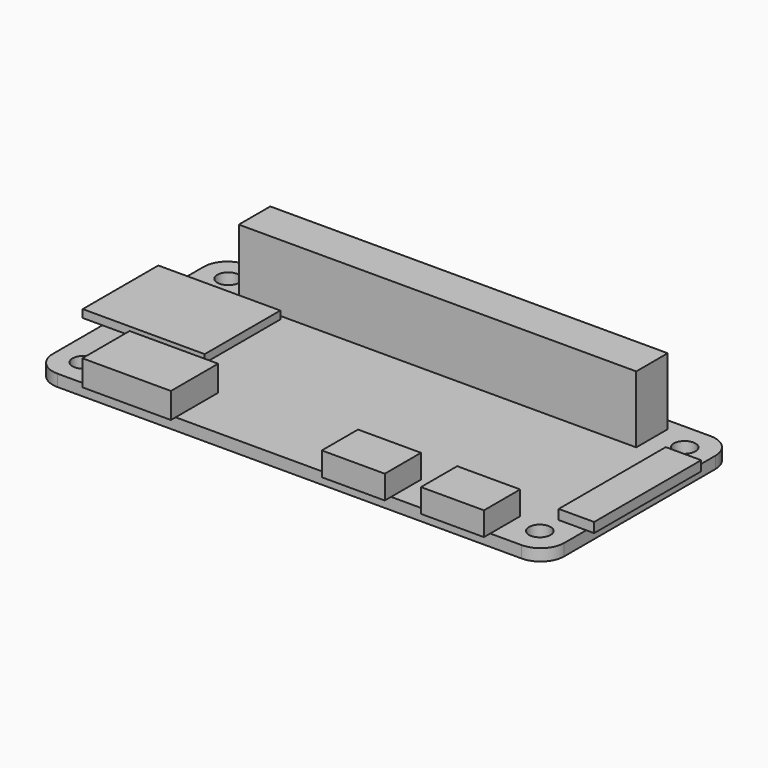
from build123d import *

# Parameters (mm, degrees)
F0_W     = 8
F0_H     = 4.75
F0_W_2   = 11.25
F0_H_2   = 6.75
F0_W_3   = 3.5
F0_H_3   = 17
F0_W_4   = 13
F0_H_4   = 12
F0_R     = 1.375
F0_W_5   = 50.5
F0_H_5   = 5
F1_DEPTH = 1.5
F2_DEPTH = 3.25
F0_W_6   = 2.5
F3_DEPTH = 1
F0_H_6   = 0.75
F4_DEPTH = 3.25
F0_H_7   = 1
F5_DEPTH = 3
F0_W_7   = 1
F6_DEPTH = 1.25
F7_DEPTH = 8.5


with BuildPart() as f1:
    # F0 (on Top) → F1 (new body)
    with BuildSketch(Plane.XY):
        with Locations((21.5, -12.625)):
            Rectangle(F0_W, F0_H)
        with Locations((8.9, -12.625)):
            Rectangle(F0_W, F0_H)
        with Locations((-20.1, -11.625)):
            Rectangle(F0_W_2, F0_H_2)
        with Locations((30.75, 0)):
            Rectangle(F0_W_3, F0_H_3)
        with Locations((-26, 1.9)):
            Rectangle(F0_W_4, F0_H_4)
        with BuildLine():
            ThreePointArc((32.5, 12), (31.62132, 14.12132), (29.5, 15))
            Line((29.5, 15), (-29.5, 15))
            ThreePointArc((-29.5, 15), (-31.62132, 14.12132), (-32.5, 12))
            Line((-32.5, 12), (-32.5, 7.9))
            Line((-32.5, 7.9), (-19.5, 7.9))
            Line((-19.5, 7.9), (-19.5, -4.1))
            Line((-19.5, -4.1), (-32.5, -4.1))
            Line((-32.5, -4.1), (-32.5, -12))
            ThreePointArc((-32.5, -12), (-31.62132, -14.12132), (-29.5, -15))
            Line((-29.5, -15), (-25.725, -15))
            Line((-25.725, -15), (-25.725, -8.25))
            Line((-25.725, -8.25), (-14.475, -8.25))
            Line((-14.475, -8.25), (-14.475, -15))
            Line((-14.475, -15), (4.9, -15))
            Line((4.9, -15), (4.9, -10.25))
            Line((4.9, -10.25), (12.9, -10.25))
            Line((12.9, -10.25), (12.9, -15))
            Line((12.9, -15), (17.5, -15))
            Line((17.5, -15), (17.5, -10.25))
            Line((17.5, -10.25), (25.5, -10.25))
            Line((25.5, -10.25), (25.5, -15))
            Line((25.5, -15), (29.5, -15))
            ThreePointArc((29.5, -15), (31.62132, -14.12132), (32.5, -12))
            Line((32.5, -12), (32.5, -8.5))
            Line((32.5, -8.5), (29, -8.5))
            Line((29, -8.5), (29, 8.5))
            Line((29, 8.5), (32.5, 8.5))
            Line((32.5, 8.5), (32.5, 12))
        make_face()
        with Locations((-29, -11.5)):
            Circle(F0_R, mode=Mode.SUBTRACT)
        with Locations((29, -11.5)):
            Circle(F0_R, mode=Mode.SUBTRACT)
        with Locations((-29, 11.5)):
            Circle(F0_R, mode=Mode.SUBTRACT)
        with Locations((0, 11)):
            Rectangle(F0_W_5, F0_H_5, mode=Mode.SUBTRACT)
        with Locations((29, 11.5)):
            Circle(F0_R, mode=Mode.SUBTRACT)
        with Locations((0, 11)):
            Rectangle(F0_W_5, F0_H_5)
    extrude(amount=-F1_DEPTH)

    # F0 (on Top) → F2 (join)
    with BuildSketch(Plane.XY):
        with Locations((0, 11)):
            Rectangle(F0_W_5, F0_H_5)
    extrude(amount=-F2_DEPTH)

    # F0 (on Top) → F3 (join)
    with BuildSketch(Plane.XY):
        with Locations((-33.75, 1.9)):
            Rectangle(F0_W_6, F0_H_4)
        with Locations((-26, 1.9)):
            Rectangle(F0_W_4, F0_H_4)
    extrude(amount=F3_DEPTH)

    # F0 (on Top) → F4 (join)
    with BuildSketch(Plane.XY):
        with Locations((-20.1, -11.625)):
            Rectangle(F0_W_2, F0_H_2)
        with Locations((-20.1, -15.375)):
            Rectangle(F0_W_2, F0_H_6)
    extrude(amount=F4_DEPTH)

    # F0 (on Top) → F5 (join)
    with BuildSketch(Plane.XY):
        with Locations((8.9, -12.625)):
            Rectangle(F0_W, F0_H)
        with Locations((21.5, -12.625)):
            Rectangle(F0_W, F0_H)
        with Locations((21.5, -15.5)):
            Rectangle(F0_W, F0_H_7)
        with Locations((8.9, -15.5)):
            Rectangle(F0_W, F0_H_7)
    extrude(amount=F5_DEPTH)

    # F0 (on Top) → F6 (join)
    with BuildSketch(Plane.XY):
        with Locations((30.75, 0)):
            Rectangle(F0_W_3, F0_H_3)
        with Locations((33, 0)):
            Rectangle(F0_W_7, F0_H_3)
    extrude(amount=F6_DEPTH)

    # F0 (on Top) → F7 (join)
    with BuildSketch(Plane.XY):
        with Locations((0, 11)):
            Rectangle(F0_W_5, F0_H_5)
    extrude(amount=F7_DEPTH)


solid = f1.part
